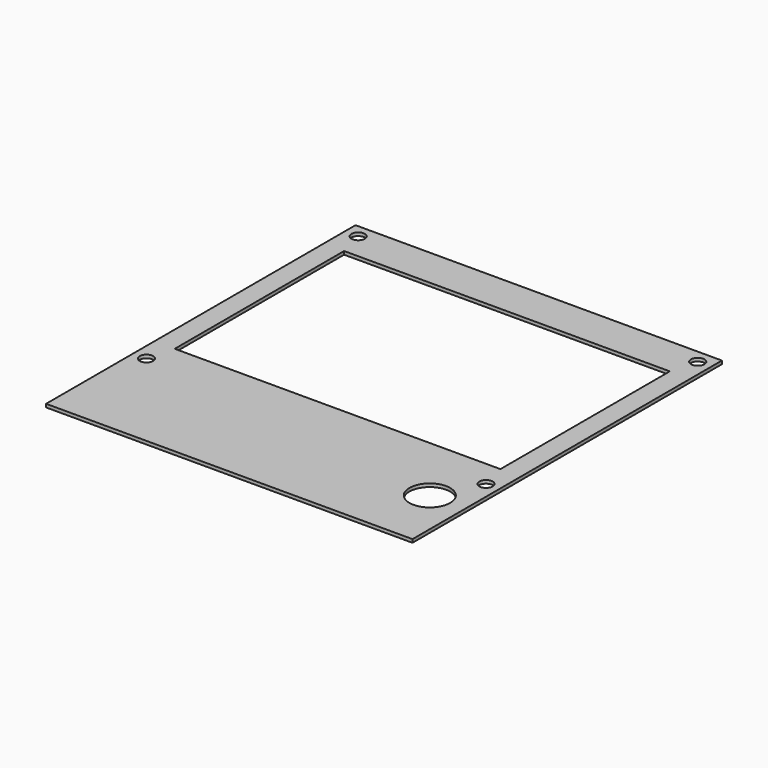
from build123d import *

# Parameters (mm, degrees)
F0_W     = 90
F0_H     = 95
F0_R     = 1.65
F0_R_2   = 5
F0_W_2   = 80
F0_H_2   = 52
F1_DEPTH = 0.8


with BuildPart() as f1:
    # F0 (on Top) → F1 (new body)
    with BuildSketch(Plane.XY):
        with Locations((45, 47.5)):
            Rectangle(F0_W, F0_H)
        with Locations((3.3, 26.7)):
            Circle(F0_R, mode=Mode.SUBTRACT)
        with Locations((81.25, 16.25)):
            Circle(F0_R_2, mode=Mode.SUBTRACT)
        with Locations((86.7, 26.7)):
            Circle(F0_R, mode=Mode.SUBTRACT)
        with Locations((3.3, 91.7)):
            Circle(F0_R, mode=Mode.SUBTRACT)
        with Locations((45, 59.25)):
            Rectangle(F0_W_2, F0_H_2, mode=Mode.SUBTRACT)
        with Locations((86.7, 91.7)):
            Circle(F0_R, mode=Mode.SUBTRACT)
    extrude(amount=F1_DEPTH)


solid = f1.part
